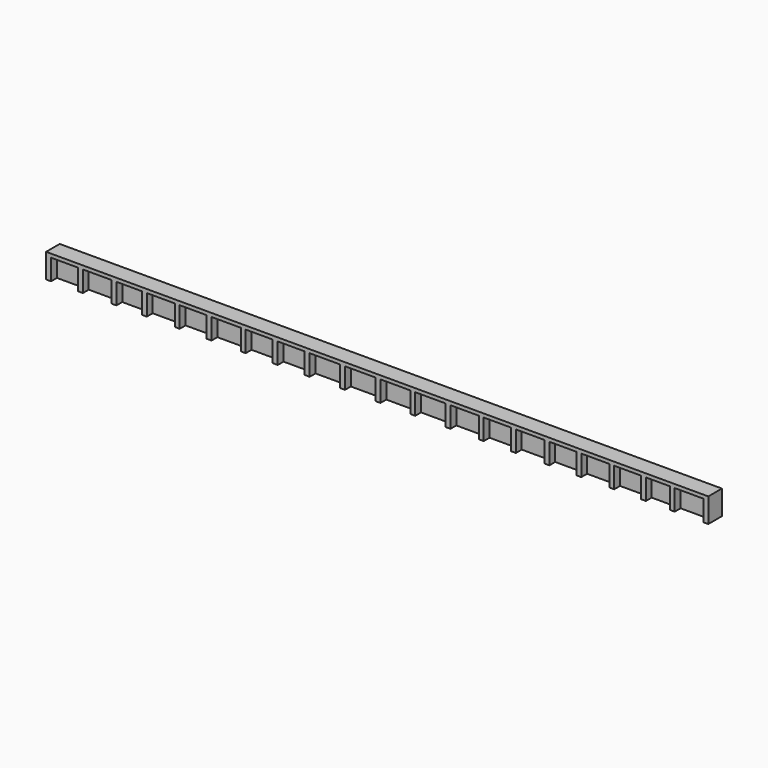
from build123d import *

# Parameters (mm, degrees)
F0_W     = 1.0496481662
F0_H     = 4.3377888929
F0_W_2   = 1.0251030326
F0_W_3   = 1.02070719
F0_W_4   = 1.0432768613
F0_W_5   = 1.0463846847
F0_W_6   = 1.0061389767
F0_W_7   = 1.0521755321
F0_W_8   = 1.0207062587
F0_W_9   = 1.0207053274
F0_W_10  = 1.0207034647
F0_W_11  = 0.9669847786
F0_W_12  = 1.0382413273
F1_DEPTH = 3.556
F0_W_13  = 5.6079216301
F0_W_14  = 5.9697218239
F0_W_15  = 5.3064189851
F0_W_16  = 5.8491192758
F0_W_17  = 6.1098765582
F0_W_18  = 5.6421123445
F0_W_19  = 5.6237019598
F0_W_20  = 6.3587981276
F0_W_21  = 6.3517062808
F0_W_22  = 6.2316799886
F0_W_23  = 6.3391225412
F0_W_24  = 5.909351632
F0_W_25  = 5.6944675744
F0_W_26  = 5.9630740434
F0_W_27  = 5.640745163
F0_W_28  = 5.8556310833
F0_W_29  = 5.5870227516
F0_W_30  = 5.0498098135
F0_W_31  = 5.963075906
F2_DEPTH = 2.032


with BuildPart() as f1:
    # F0 (on Front) → F1 (new body)
    with BuildSketch(Plane.XZ):
        with Locations((-68.5631759169, -0.3711055536)):
            Rectangle(F0_W, F0_H)
        Polygon((69.088, 1.7977888929), (69.088, 2.54), (-69.088, 2.54), (-69.088, 1.7977888929), (-68.0383518338, 1.7977888929), (-62.4304302037, 1.7977888929), (-61.4053271711, 1.7977888929), (-55.4356053472, 1.7977888929), (-54.4105023146, 1.7977888929), (-49.1040833294, 1.7977888929), (-48.0789802969, 1.7977888929), (-42.229861021, 1.7977888929), (-41.2047579885, 1.7977888929), (-35.5968363583, 1.7977888929), (-34.5717333257, 1.7977888929), (-28.4618567675, 1.7977888929), (-27.4411495775, 1.7977888929), (-21.799037233, 1.7977888929), (-20.7557603717, 1.7977888929), (-15.1320584118, 1.7977888929), (-14.0856737271, 1.7977888929), (-7.7268755995, 1.7977888929), (-6.7207366228, 1.7977888929), (-0.369030342, 1.7977888929), (0.6831451901, 1.7977888929), (6.9148251787, 1.7977888929), (7.9355314374, 1.7977888929), (14.2746539786, 1.7977888929), (15.2953602374, 1.7977888929), (21.2047118694, 1.7977888929), (22.2254171968, 1.7977888929), (27.9198847711, 1.7977888929), (28.9405900985, 1.7977888929), (34.9036641419, 1.7977888929), (35.9243713319, 1.7977888929), (41.5651164949, 1.7977888929), (42.5858236849, 1.7977888929), (48.4414547682, 1.7977888929), (49.4621582329, 1.7977888929), (55.0491809845, 1.7977888929), (56.0698881745, 1.7977888929), (61.119697988, 1.7977888929), (62.0866827667, 1.7977888929), (68.0497586727, 1.7977888929), align=None)
        with Locations((-61.9178786874, -0.3711055536)):
            Rectangle(F0_W_2, F0_H)
        with Locations((-54.9230538309, -0.3711055536)):
            Rectangle(F0_W_2, F0_H)
        with Locations((-48.5915318131, -0.3711055536)):
            Rectangle(F0_W_2, F0_H)
        with Locations((-41.7173095047, -0.3711055536)):
            Rectangle(F0_W_2, F0_H)
        with Locations((-35.084284842, -0.3711055536)):
            Rectangle(F0_W_2, F0_H)
        with Locations((-27.9515031725, -0.3711055536)):
            Rectangle(F0_W_3, F0_H)
        with Locations((-21.2773988023, -0.3711055536)):
            Rectangle(F0_W_4, F0_H)
        with Locations((-14.6088660695, -0.3711055536)):
            Rectangle(F0_W_5, F0_H)
        with Locations((-7.2238061111, -0.3711055536)):
            Rectangle(F0_W_6, F0_H)
        with Locations((0.1570574241, -0.3711055536)):
            Rectangle(F0_W_7, F0_H)
        with Locations((7.425178308, -0.3711055536)):
            Rectangle(F0_W_8, F0_H)
        with Locations((14.785007108, -0.3711055536)):
            Rectangle(F0_W_8, F0_H)
        with Locations((21.7150645331, -0.3711055536)):
            Rectangle(F0_W_9, F0_H)
        with Locations((28.4302374348, -0.3711055536)):
            Rectangle(F0_W_9, F0_H)
        with Locations((35.4140177369, -0.3711055536)):
            Rectangle(F0_W_3, F0_H)
        with Locations((42.0754700899, -0.3711055536)):
            Rectangle(F0_W_3, F0_H)
        with Locations((48.9518065006, -0.3711055536)):
            Rectangle(F0_W_10, F0_H)
        with Locations((55.5595345795, -0.3711055536)):
            Rectangle(F0_W_3, F0_H)
        with Locations((61.6031903774, -0.3711055536)):
            Rectangle(F0_W_11, F0_H)
        with Locations((68.5688793364, -0.3711055536)):
            Rectangle(F0_W_12, F0_H)
    extrude(amount=F1_DEPTH)

    # F0 (on Front) → F2 (join)
    with BuildSketch(Plane.XZ):
        with Locations((-65.2343910187, -0.3711055536)):
            Rectangle(F0_W_13, F0_H)
        with Locations((-58.4204662591, -0.3711055536)):
            Rectangle(F0_W_14, F0_H)
        with Locations((-51.757292822, -0.3711055536)):
            Rectangle(F0_W_15, F0_H)
        with Locations((-45.1544206589, -0.3711055536)):
            Rectangle(F0_W_16, F0_H)
        with Locations((-38.4007971734, -0.3711055536)):
            Rectangle(F0_W_13, F0_H)
        with Locations((-31.5167950466, -0.3711055536)):
            Rectangle(F0_W_17, F0_H)
        with Locations((-24.6200934052, -0.3711055536)):
            Rectangle(F0_W_18, F0_H)
        with Locations((-17.9439093918, -0.3711055536)):
            Rectangle(F0_W_19, F0_H)
        with Locations((-10.9062746633, -0.3711055536)):
            Rectangle(F0_W_20, F0_H)
        with Locations((-3.5448834824, -0.3711055536)):
            Rectangle(F0_W_21, F0_H)
        with Locations((3.7989851844, -0.3711055536)):
            Rectangle(F0_W_22, F0_H)
        with Locations((11.105092708, -0.3711055536)):
            Rectangle(F0_W_23, F0_H)
        with Locations((18.2500360534, -0.3711055536)):
            Rectangle(F0_W_24, F0_H)
        with Locations((25.0726509839, -0.3711055536)):
            Rectangle(F0_W_25, F0_H)
        with Locations((31.9221271202, -0.3711055536)):
            Rectangle(F0_W_26, F0_H)
        with Locations((38.7447439134, -0.3711055536)):
            Rectangle(F0_W_27, F0_H)
        with Locations((45.5136392266, -0.3711055536)):
            Rectangle(F0_W_28, F0_H)
        with Locations((52.2556696087, -0.3711055536)):
            Rectangle(F0_W_29, F0_H)
        with Locations((58.5947930813, -0.3711055536)):
            Rectangle(F0_W_30, F0_H)
        with Locations((65.0682207197, -0.3711055536)):
            Rectangle(F0_W_31, F0_H)
    extrude(amount=F2_DEPTH)


solid = f1.part
